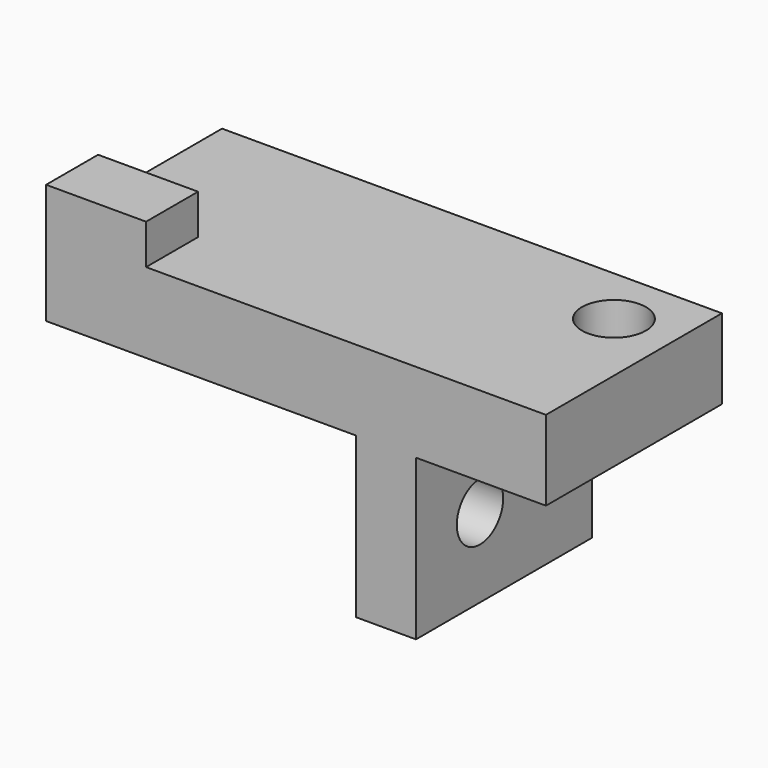
from build123d import *

# Parameters (mm, degrees)
SKETCH_W          = 25
SKETCH_H          = 11
SKETCH_R          = 1.6
PAD_DEPTH         = 4
POCKET_DEPTH      = 18
SKETCH002_W       = 5
SKETCH002_H       = 3.25
PAD001_DEPTH      = 2
SKETCH003_W       = 3
SKETCH003_H       = 11
PAD002_DEPTH      = 4
PAD002_DEPTH_BACK = 8
SKETCH004_R       = 1.45
POCKET001_DEPTH   = 25.001


with BuildPart() as part:
    # Sketch → Pad (new body)
    with BuildSketch(Plane.XY):
        with Locations((12.5, 5.5)):
            Rectangle(SKETCH_W, SKETCH_H)
        with Locations((22, 8)):
            Circle(SKETCH_R, mode=Mode.SUBTRACT)
    extrude(amount=PAD_DEPTH)

    # Sketch001 → Pocket (cut)
    with BuildSketch(Plane.YZ):
        Polygon((1, 3), (7, 3), (7, 1.5), (6, 1.5), (6, 0), (2, 0), (2, 1.5), (1, 1.5), align=None)
    extrude(amount=POCKET_DEPTH, mode=Mode.SUBTRACT)

    # Sketch002 (on DatumPlane) → Pad001 (join)
    with BuildSketch(Plane.XY.offset(4)):
        with Locations((2.5, 1.625)):
            Rectangle(SKETCH002_W, SKETCH002_H)
    extrude(amount=PAD001_DEPTH)

    # Sketch003 → Pad002 (join, two sides)
    with BuildSketch(Plane.XY) as pad002_sk:
        with Locations((17, 5.5)):
            Rectangle(SKETCH003_W, SKETCH003_H)
    extrude(amount=PAD002_DEPTH)
    extrude(pad002_sk.sketch, amount=-PAD002_DEPTH_BACK)

    # Sketch004 → Pocket001 (cut, through all)
    with BuildSketch(Plane.YZ):
        with Locations((4, -4)):
            Circle(SKETCH004_R)
    extrude(amount=POCKET001_DEPTH, mode=Mode.SUBTRACT)


solid = part.part
